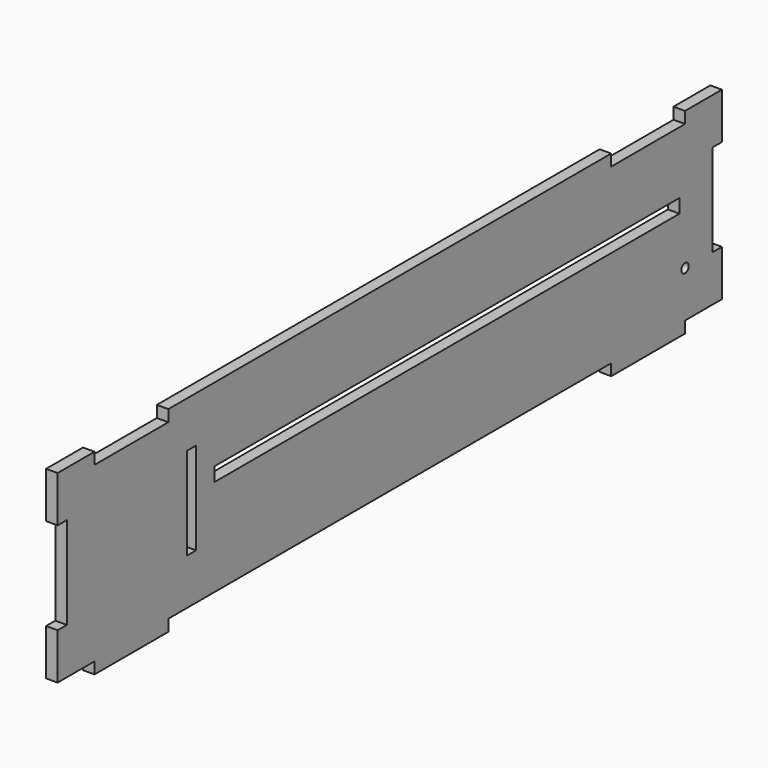
from build123d import *

# Parameters (mm, degrees)
F0_W      = 457.2
F0_H      = 101.6
F1_DEPTH  = 6.35
F2_W      = 50.8
F2_H      = 6.35
F3_DEPTH  = 6.35
F4_R      = 2.54
F5_DEPTH  = 6.351
F6_W      = 6.35
F6_H      = 50.8
F7_DEPTH  = 25.4
F9_W      = 6.35
F9_H      = 50.8
F10_DEPTH = 25.4
F11_W     = 50.8
F11_H     = 6.35
F12_DEPTH = 25.4
F13_W     = 320.04
F13_H     = 7.62
F14_DEPTH = 25.4


with BuildPart() as f1:
    # F0 (on Right) → F1 (new body)
    with BuildSketch(Plane.YZ):
        with Locations((0, 50.8)):
            Rectangle(F0_W, F0_H)
    extrude(amount=F1_DEPTH)

    # F4 (on face) → F5 (cut, through all)
    with BuildSketch(Plane.YZ.offset(6.35)):
        with Locations((203.2, 25.4)):
            Circle(F4_R)
    extrude(amount=-F5_DEPTH, mode=Mode.SUBTRACT)

    # F6 (on face) → F7 (cut)
    with BuildSketch(Plane.YZ.offset(6.35)):
        with Locations((225.425, 50.8)):
            Rectangle(F6_W, F6_H)
        with Locations((-225.425, 50.8)):
            Rectangle(F6_W, F6_H)
    extrude(amount=-F7_DEPTH, mode=Mode.SUBTRACT)


with BuildPart() as f3:
    # F2 (on face) → F3 (new body)
    with BuildSketch(Plane.YZ.offset(6.35)):
        with Locations((177.8, -3.175)):
            Rectangle(F2_W, F2_H)
        with Locations((-177.8, -3.175)):
            Rectangle(F2_W, F2_H)
    extrude(amount=-F3_DEPTH)

    # F8: union F1
    add(f1.part)

    # F9 (on face) → F10 (cut)
    with BuildSketch(Plane.YZ.offset(6.35)):
        with Locations((-136.525, 50.8)):
            Rectangle(F9_W, F9_H)
    extrude(amount=-F10_DEPTH, mode=Mode.SUBTRACT)

    # F11 (on face) → F12 (cut)
    with BuildSketch(Plane.YZ.offset(6.35)):
        with Locations((-177.8, 98.425)):
            Rectangle(F11_W, F11_H)
        with Locations((177.8, 98.425)):
            Rectangle(F11_W, F11_H)
    extrude(amount=-F12_DEPTH, mode=Mode.SUBTRACT)

    # F13 (on face) → F14 (cut)
    with BuildSketch(Plane.YZ.offset(6.35)):
        with Locations((39.37, 57.15)):
            Rectangle(F13_W, F13_H)
    extrude(amount=-F14_DEPTH, mode=Mode.SUBTRACT)


solid = f3.part
